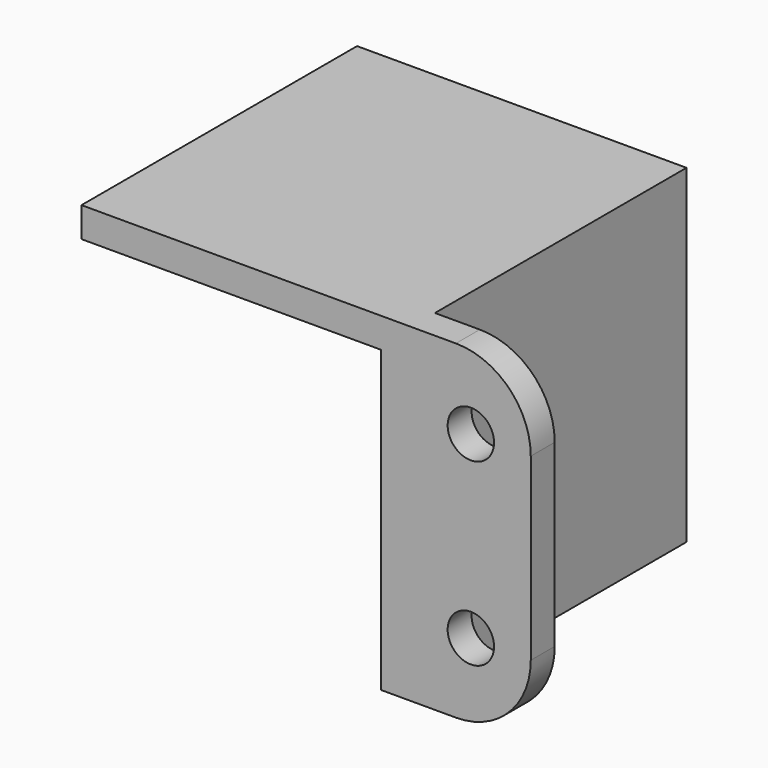
from build123d import *

# Parameters (mm, degrees)
CYLINDER_R             = 1.55
CYLINDER_DEPTH         = 10
CYLINDER_ROLL_ANGLE    = -90
CYLINDER001_R          = 20
CYLINDER001_DEPTH      = 25
CYLINDER001_ROLL_ANGLE = -90
CYLINDER002_R          = 1.55
CYLINDER002_DEPTH      = 10
CYLINDER002_ROLL_ANGLE = -90
BOX003_W               = 35
BOX003_H               = 9
BOX003_DEPTH           = 10
BOX001_W               = 20
BOX001_H               = 21
BOX001_DEPTH           = 20
BOX_W                  = 22
BOX_H                  = 23
BOX_DEPTH              = 22
BOX002_W               = 30
BOX002_H               = 2
BOX002_DEPTH           = 30
FILLET_R               = 5
FILLET001_R            = 5


with BuildPart() as cilindro:
    # Cylinder → Cylinder (new body)
    with BuildSketch(Plane.XY):
        Circle(CYLINDER_R)
    extrude(amount=CYLINDER_DEPTH)


with BuildPart() as cilindro_1:
    # Cylinder roll: moved
    add(cilindro.part.rotate(Axis((0, 0, 0), (1, 0, 0)), CYLINDER_ROLL_ANGLE))


with BuildPart() as cilindro_2:
    # Cylinder placement: moved
    add(cilindro_1.part.moved(Location((26, -2, 5))))


with BuildPart() as cilindro001:
    # Cylinder001 → Cylinder001 (new body)
    with BuildSketch(Plane.XY):
        Circle(CYLINDER001_R)
    extrude(amount=CYLINDER001_DEPTH)


with BuildPart() as cilindro001_1:
    # Cylinder001 roll: moved
    add(cilindro001.part.rotate(Axis((0, 0, 0), (1, 0, 0)), CYLINDER001_ROLL_ANGLE))


with BuildPart() as cilindro001_2:
    # Cylinder001 placement: moved
    add(cilindro001_1.part)


with BuildPart() as cilindro002:
    # Cylinder002 → Cylinder002 (new body)
    with BuildSketch(Plane.XY):
        Circle(CYLINDER002_R)
    extrude(amount=CYLINDER002_DEPTH)


with BuildPart() as cilindro002_1:
    # Cylinder002 roll: moved
    add(cilindro002.part.rotate(Axis((0, 0, 0), (1, 0, 0)), CYLINDER002_ROLL_ANGLE))


with BuildPart() as cilindro002_2:
    # Cylinder002 placement: moved
    add(cilindro002_1.part.moved(Location((26, -2, 17))))


with BuildPart() as cubo003:
    # Box003 → Box003 (new body)
    with BuildSketch(Plane.XY.offset(22)):
        with Locations((17.5, 4.5)):
            Rectangle(BOX003_W, BOX003_H)
    extrude(amount=BOX003_DEPTH)


with BuildPart() as cubo001:
    # Box001 → Box001 (new body)
    with BuildSketch(Plane.XY):
        with Locations((10, 10.5)):
            Rectangle(BOX001_W, BOX001_H)
    extrude(amount=BOX001_DEPTH)


with BuildPart() as cubo:
    # Box → Box (new body)
    with BuildSketch(Plane.XY):
        with Locations((11, 11.5)):
            Rectangle(BOX_W, BOX_H)
    extrude(amount=BOX_DEPTH)


with BuildPart() as fillet001:
    # Box002 → Box002 (new body)
    with BuildSketch(Plane.XY):
        with Locations((15, 1)):
            Rectangle(BOX002_W, BOX002_H)
    extrude(amount=BOX002_DEPTH)

    # Fusion: union Cubo
    add(cubo.part)

    # Cut: cut Cubo001
    add(cubo001.part, mode=Mode.SUBTRACT)

    # Cut001: cut Cubo003
    add(cubo003.part, mode=Mode.SUBTRACT)

    # Cut002: cut Cilindro002
    add(cilindro002_2.part, mode=Mode.SUBTRACT)

    # Cut003: cut Cilindro001
    add(cilindro001_2.part, mode=Mode.SUBTRACT)

    # Cut004: cut Cilindro
    add(cilindro_2.part, mode=Mode.SUBTRACT)

    # Fillet
    fillet_edges = [fillet001.edges().sort_by_distance(p)[0] for p in [
        (30, 1, 0),
    ]]
    fillet(fillet_edges, radius=FILLET_R)

    # Fillet001
    fillet001_edges = [fillet001.edges().sort_by_distance(p)[0] for p in [
        (30, 1, 22),
    ]]
    fillet(fillet001_edges, radius=FILLET001_R)


solid = fillet001.part
